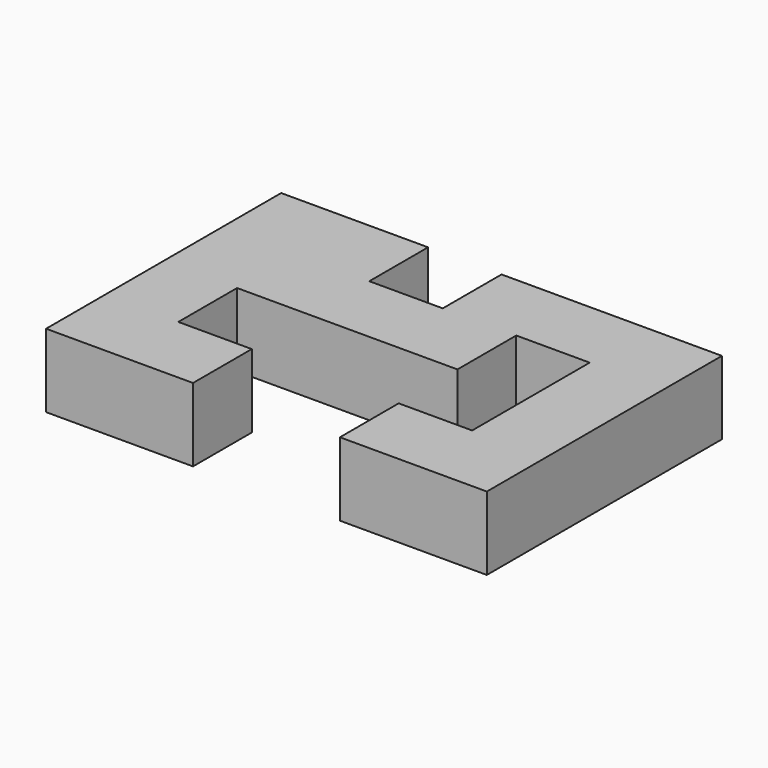
from build123d import *

# Parameters (mm, degrees)
F1_DEPTH = 10


with BuildPart() as f1:
    # F0 (on Top) → F1 (new body)
    with BuildSketch(Plane.XY):
        Polygon((-10, 20), (-30, 20), (-30, -20), (-10, -20), (-10, -10), (-20, -10), (-20, 0), (-20, 10), (-10, 10), align=None)
        Polygon((30, 20), (0, 20), (0, 10), (10, 10), (20, 10), (20, -10), (10, -10), (10, -20), (30, -20), align=None)
        Polygon((0, 10), (-10, 10), (-20, 10), (-20, 0), (10, 0), (10, 10), align=None)
    extrude(amount=F1_DEPTH)


solid = f1.part
